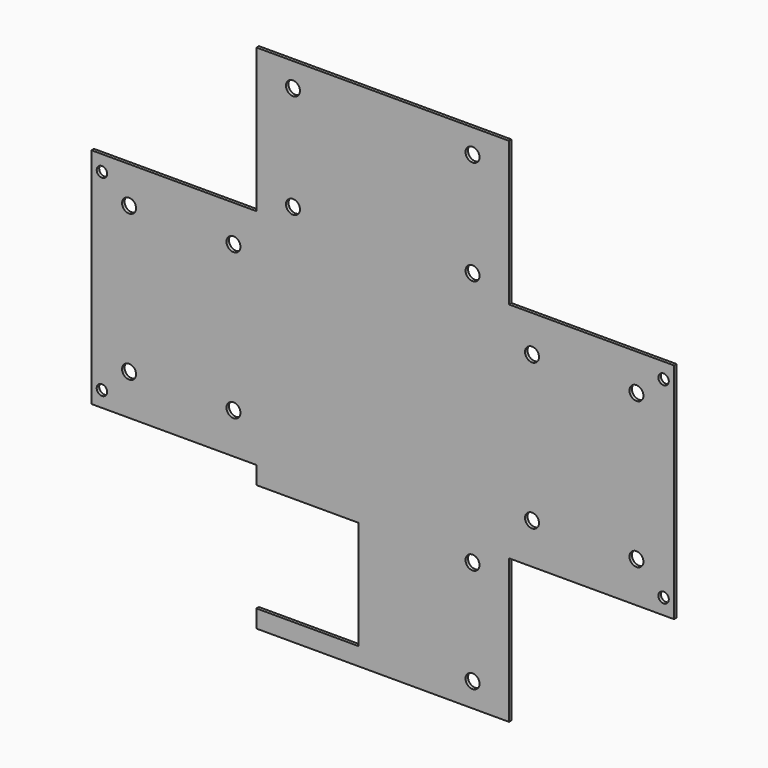
from build123d import *

# Parameters (mm, degrees)
F0_W     = 242
F0_H     = 214
F0_R     = 6.7
F1_DEPTH = 3


with BuildPart() as f1:
    # F0 (on Front) → F1 (new body)
    with BuildSketch(Plane.XZ):
        Polygon((0, -138), (0, 0), (-121, 0), (-242, 0), (-242, -138), align=None)
        with BuildLine():
            ThreePointArc((-200.3, -123), (-211.7376154339, -127.7376154339), (-207, -116.3))
            ThreePointArc((-207, -116.3), (-202.2623845661, -118.2623845661), (-200.3, -123))
        make_face(mode=Mode.SUBTRACT)
        with BuildLine():
            ThreePointArc((-207, -29.7), (-211.7376154339, -18.2623845661), (-200.3, -23))
            ThreePointArc((-200.3, -23), (-202.2623845661, -27.7376154339), (-207, -29.7))
        make_face(mode=Mode.SUBTRACT)
        with BuildLine():
            ThreePointArc((-28.3, -123), (-35, -129.7), (-41.7, -123))
            ThreePointArc((-41.7, -123), (-35, -116.3), (-28.3, -123))
        make_face(mode=Mode.SUBTRACT)
        with BuildLine():
            ThreePointArc((-28.3, -23), (-35, -29.7), (-41.7, -23))
            ThreePointArc((-41.7, -23), (-35, -16.3), (-28.3, -23))
        make_face(mode=Mode.SUBTRACT)
        with Locations((-121, -245)):
            Rectangle(F0_W, F0_H)
        Polygon((22, -138), (0, -138), (0, -352), (138, -352), (138, -138), align=None)
        with Locations((22, -313)):
            Circle(F0_R, mode=Mode.SUBTRACT)
        with BuildLine():
            ThreePointArc((115.3, -313), (117.2623845661, -308.2623845661), (122, -306.3))
            ThreePointArc((122, -306.3), (126.7376154339, -308.2623845661), (128.7, -313))
            ThreePointArc((128.7, -313), (122, -319.7), (115.3, -313))
        make_face(mode=Mode.SUBTRACT)
        with BuildLine():
            ThreePointArc((28.7, -173), (17.2623845661, -177.7376154339), (22, -166.3))
            ThreePointArc((22, -166.3), (26.7376154339, -168.2623845661), (28.7, -173))
        make_face(mode=Mode.SUBTRACT)
        with BuildLine():
            ThreePointArc((122, -179.7), (117.2623845661, -177.7376154339), (115.3, -173))
            ThreePointArc((115.3, -173), (122, -166.3), (128.7, -173))
            ThreePointArc((128.7, -173), (126.7376154339, -177.7376154339), (122, -179.7))
        make_face(mode=Mode.SUBTRACT)
        Polygon((-242, -352), (-242, -138), (-264, -138), (-380, -138), (-380, -352), align=None)
        with BuildLine():
            ThreePointArc((-357.3, -313), (-368.7376154339, -317.7376154339), (-364, -306.3))
            ThreePointArc((-364, -306.3), (-359.2623845661, -308.2623845661), (-357.3, -313))
        make_face(mode=Mode.SUBTRACT)
        with BuildLine():
            ThreePointArc((-257.3, -313), (-264, -319.7), (-270.7, -313))
            ThreePointArc((-270.7, -313), (-264, -306.3), (-257.3, -313))
        make_face(mode=Mode.SUBTRACT)
        with BuildLine():
            ThreePointArc((-364, -179.7), (-368.7376154339, -168.2623845661), (-357.3, -173))
            ThreePointArc((-357.3, -173), (-359.2623845661, -177.7376154339), (-364, -179.7))
        make_face(mode=Mode.SUBTRACT)
        with BuildLine():
            ThreePointArc((-270.7, -173), (-268.7376154339, -168.2623845661), (-264, -166.3))
            ThreePointArc((-264, -166.3), (-259.2623845661, -168.2623845661), (-257.3, -173))
            ThreePointArc((-257.3, -173), (-264, -179.7), (-270.7, -173))
        make_face(mode=Mode.SUBTRACT)
        Polygon((0, -490), (0, -352), (-242, -352), (-242, -369), (-144, -369), (-144, -473), (-242, -473), (-242, -490), (-144, -490), (-121, -490), align=None)
        with BuildLine():
            ThreePointArc((-28.3, -467), (-35, -473.7), (-41.7, -467))
            ThreePointArc((-41.7, -467), (-39.7376154339, -462.2623845661), (-35, -460.3))
            ThreePointArc((-35, -460.3), (-30.2623845661, -462.2623845661), (-28.3, -467))
        make_face(mode=Mode.SUBTRACT)
        with BuildLine():
            ThreePointArc((-28.3, -367), (-30.2623845661, -371.7376154339), (-35, -373.7))
            ThreePointArc((-35, -373.7), (-39.7376154339, -362.2623845661), (-28.3, -367))
        make_face(mode=Mode.SUBTRACT)
        Polygon((138, -138), (138, -352), (148, -352), (158, -352), (158, -138), (148, -138), align=None)
        with BuildLine():
            ThreePointArc((153, -337), (151.5355339059, -340.5355339059), (148, -342))
            ThreePointArc((148, -342), (144.4644660941, -333.4644660941), (153, -337))
        make_face(mode=Mode.SUBTRACT)
        with BuildLine():
            ThreePointArc((153, -153), (144.4644660941, -156.5355339059), (148, -148))
            ThreePointArc((148, -148), (151.5355339059, -149.4644660941), (153, -153))
        make_face(mode=Mode.SUBTRACT)
        Polygon((-390, -352), (-380, -352), (-380, -138), (-390, -138), (-400, -138), (-400, -352), align=None)
        with BuildLine():
            ThreePointArc((-385, -337), (-386.4644660941, -340.5355339059), (-390, -342))
            ThreePointArc((-390, -342), (-393.5355339059, -333.4644660941), (-385, -337))
        make_face(mode=Mode.SUBTRACT)
        with BuildLine():
            ThreePointArc((-385, -153), (-393.5355339059, -156.5355339059), (-390, -148))
            ThreePointArc((-390, -148), (-386.4644660941, -149.4644660941), (-385, -153))
        make_face(mode=Mode.SUBTRACT)
    extrude(amount=F1_DEPTH)


solid = f1.part
